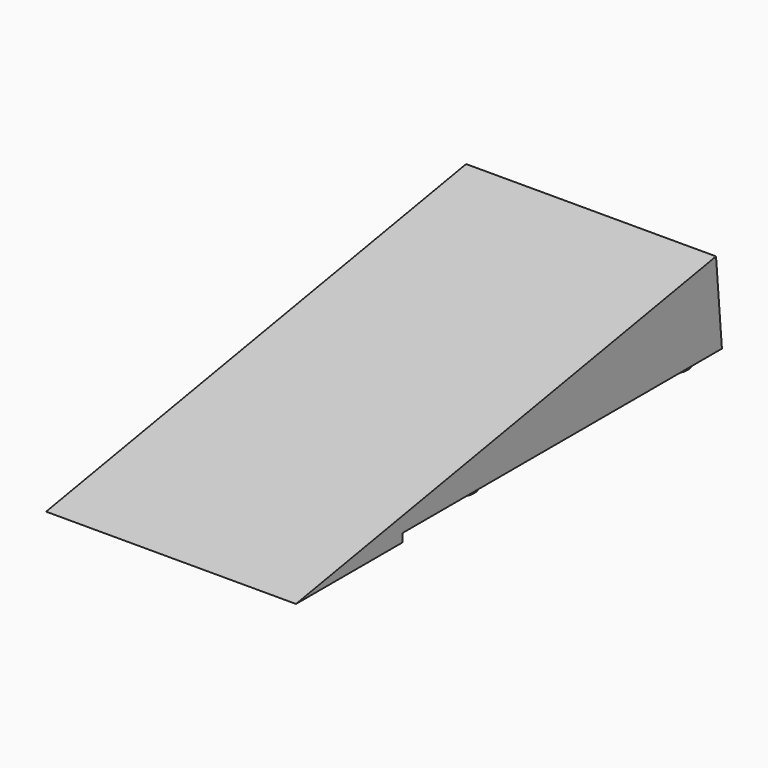
from build123d import *

# Parameters (mm, degrees)
F0_W     = 60
F0_H     = 128
F1_ANGLE = 10
F3_DEPTH = 60.001
F4_W     = 60
F4_H     = 96
F4_R     = 4
F5_DEPTH = 2
F4_R_2   = 1.5
F6_DEPTH = 8


with BuildPart() as f1:
    # F0 (on Top) → F1 (revolve)
    with BuildSketch(Plane.XY):
        with Locations((-4.03933, 18.915136)):
            Rectangle(F0_W, F0_H)
    revolve(axis=Axis((-4.03933, -45.084864, 0), (1, 0, 0)), revolution_arc=F1_ANGLE)

    # F2 (on face) → F3 (cut, through all)
    with BuildSketch(Plane.YZ.offset(25.96067)):
        with BuildLine():
            Line((80.970529, 22.226967), (82.915136, 0))
            ThreePointArc((82.915136, 0), (82.428058, 11.155935), (80.970529, 22.226967))
        make_face()
    extrude(amount=-F3_DEPTH, mode=Mode.SUBTRACT)

    # F4 (on face) → F5 (cut)
    with BuildSketch(Plane(origin=(0, 0, 0), x_dir=(1, 0, 0), z_dir=(0, 0, -1))):
        with Locations((-4.03933, -34.915136)):
            Rectangle(F4_W, F4_H)
        with Locations((-28.03933, -74.915136)):
            Circle(F4_R, mode=Mode.SUBTRACT)
        with Locations((19.96067, -74.915136)):
            Circle(F4_R, mode=Mode.SUBTRACT)
        with Locations((-28.03933, -10.915136)):
            Circle(F4_R, mode=Mode.SUBTRACT)
        with Locations((19.96067, -10.915136)):
            Circle(F4_R, mode=Mode.SUBTRACT)
    extrude(amount=-F5_DEPTH, mode=Mode.SUBTRACT)

    # F4 (on face) → F6 (cut)
    with BuildSketch(Plane(origin=(0, 0, 0), x_dir=(1, 0, 0), z_dir=(0, 0, -1))):
        with Locations((-28.03933, -10.915136)):
            Circle(F4_R_2)
        with Locations((19.96067, -10.915136)):
            Circle(F4_R_2)
        with Locations((19.96067, -74.915136)):
            Circle(F4_R_2)
        with Locations((-28.03933, -74.915136)):
            Circle(F4_R_2)
    extrude(amount=-F6_DEPTH, mode=Mode.SUBTRACT)


solid = f1.part
